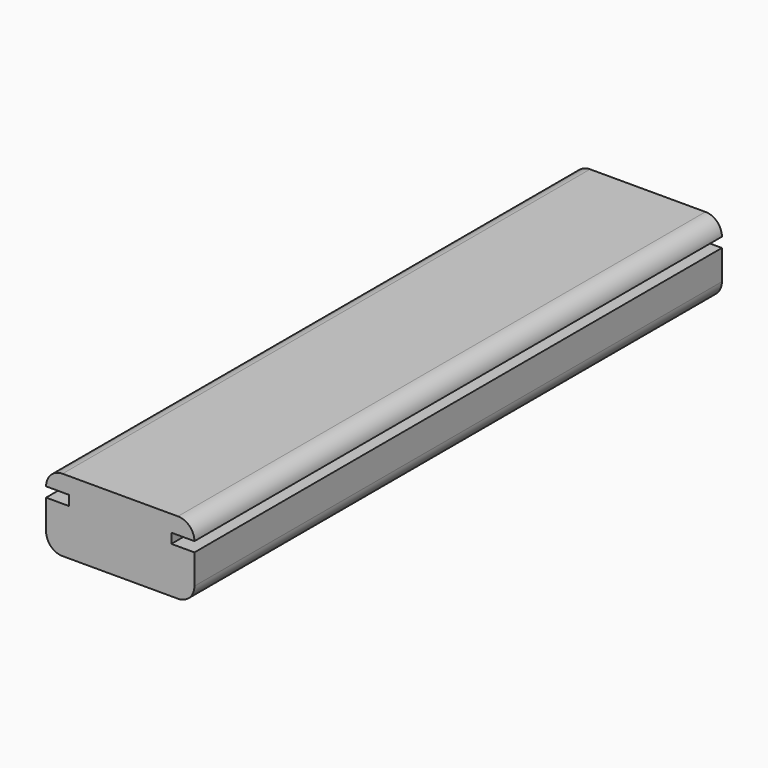
from build123d import *

# Parameters (mm, degrees)
F0_W     = 45
F0_H     = 22
F1_DEPTH = 200
F2_R     = 5
F3_W     = 200
F3_H     = 3
F4_DEPTH = 7
F5_W     = 200
F5_H     = 3
F6_DEPTH = 7


with BuildPart() as f1:
    # F0 (on Front) → F1 (new body)
    with BuildSketch(Plane.XZ):
        Rectangle(F0_W, F0_H)
    extrude(amount=-F1_DEPTH)

    # F2
    f2_edges = [f1.edges().sort_by_distance(p)[0] for p in [
        (22.5, 100, 11),
        (-22.5, 100, 11),
        (22.5, 100, -11),
        (-22.5, 100, -11),
    ]]
    fillet(f2_edges, radius=F2_R)

    # F3 (on face) → F4 (cut)
    with BuildSketch(Plane.YZ.offset(22.5)):
        with Locations((100, 4.5)):
            Rectangle(F3_W, F3_H)
        with Locations((100, 4.5)):
            Rectangle(F3_W, F3_H)
    extrude(amount=-F4_DEPTH, mode=Mode.SUBTRACT)

    # F5 (on face) → F6 (cut)
    with BuildSketch(Plane(origin=(-22.5, 0, 0), x_dir=(0, -1, 0), z_dir=(-1, 0, 0))):
        with Locations((-100, 4.5)):
            Rectangle(F5_W, F5_H)
    extrude(amount=-F6_DEPTH, mode=Mode.SUBTRACT)


solid = f1.part
